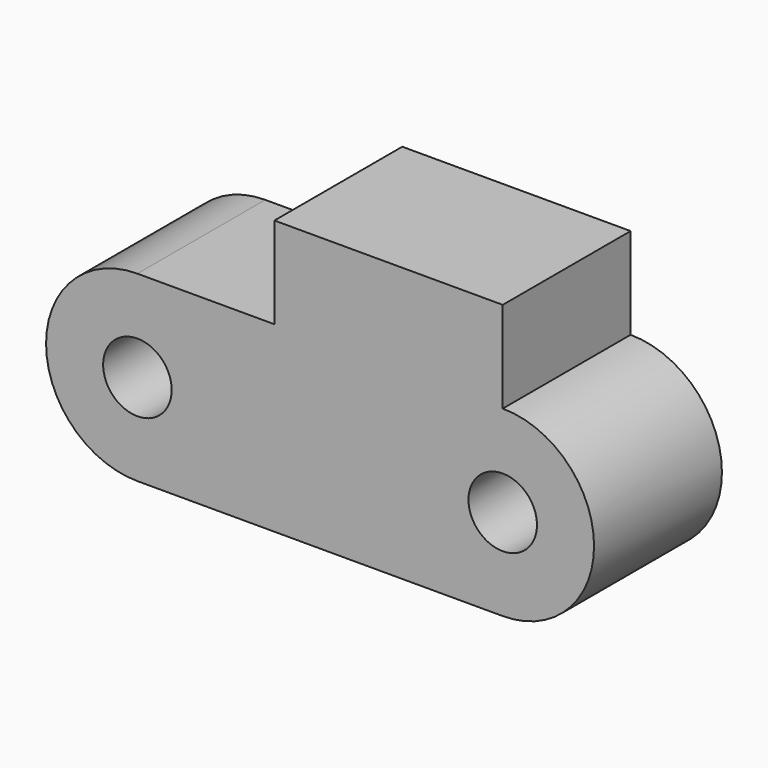
from build123d import *

# Parameters (mm, degrees)
F0_R     = 3
F1_DEPTH = 14


with BuildPart() as f1:
    # F0 (on Front) → F1 (new body)
    with BuildSketch(Plane.XZ):
        with Locations((-16, 0)):
            Circle(F0_R)
        with BuildLine():
            ThreePointArc((19, 0), (16, 3), (13, 0))
            ThreePointArc((13, 0), (16, -3), (19, 0))
        make_face()
        with BuildLine():
            ThreePointArc((-16, 8), (-24, 0), (-16, -8))
            Line((-16, -8), (16, -8))
            ThreePointArc((16, -8), (24, 0), (16, 8))
            Line((16, 8), (16, 16))
            Line((16, 16), (-4, 16))
            Line((-4, 16), (-4, 8))
            Line((-4, 8), (-16, 8))
        make_face()
        with Locations((-16, 0)):
            Circle(F0_R, mode=Mode.SUBTRACT)
        with BuildLine():
            ThreePointArc((19, 0), (16, -3), (13, 0))
            ThreePointArc((13, 0), (16, 3), (19, 0))
        make_face(mode=Mode.SUBTRACT)
    extrude(amount=F1_DEPTH)


solid = f1.part
